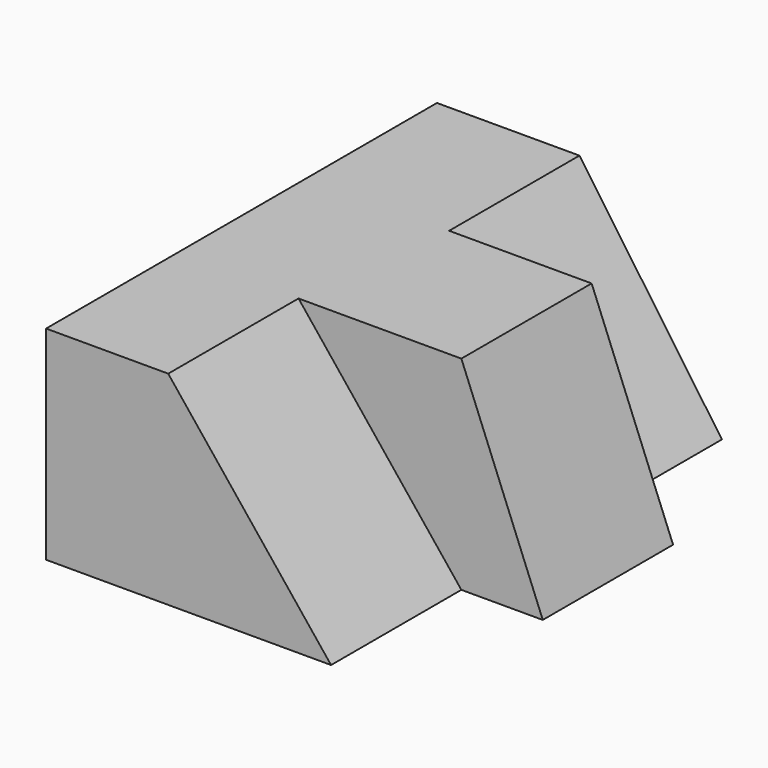
from build123d import *

# Parameters (mm, degrees)
F1_DEPTH = 25.4
F3_DEPTH = 25.4
F5_DEPTH = 25.4


with BuildPart() as f1:
    # F0 (on Front) → F1 (new body)
    with BuildSketch(Plane.XZ):
        Polygon((0, 31.75), (0, 0), (57.15, 0), (44.45, 31.75), align=None)
    extrude(amount=F1_DEPTH)

    # F2 (on face) → F3 (join)
    with BuildSketch(Plane.XZ.offset(25.4)):
        Polygon((0, 31.75), (0, 0), (44.45, 0), (19.05, 31.75), align=None)
    extrude(amount=F3_DEPTH)

    # F4 (on face) → F5 (join)
    with BuildSketch(Plane(origin=(0, 0, 0), x_dir=(-1, 0, 0), z_dir=(0, 1, 0))):
        Polygon((-44.45, 0), (0, 0), (0, 31.75), (-22.225, 31.75), align=None)
    extrude(amount=F5_DEPTH)


solid = f1.part
